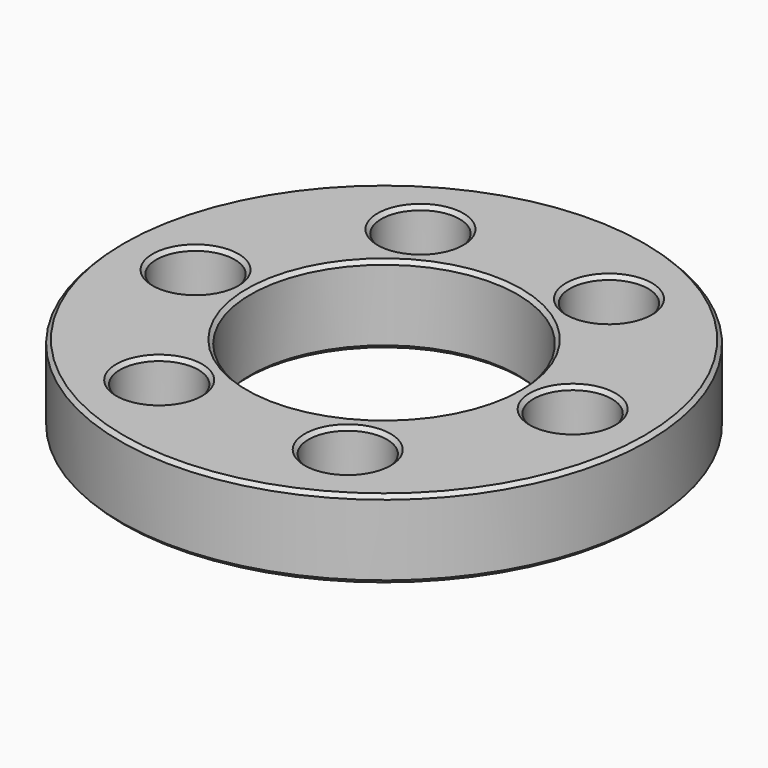
from build123d import *

# Parameters (mm, degrees)
SKETCH_R        = 17.5
SKETCH_R_2      = 8.85
SKETCH_R_3      = 2.6
PAD_DEPTH       = 5.2
SKETCH001_R     = 17.5
SKETCH001_R_2   = 8.85
PAD001_DEPTH    = 0.2
CHAMFER_SIZE    = 0.25
CHAMFER001_SIZE = 0.25


with BuildPart() as part:
    # Sketch → Pad (new body)
    with BuildSketch(Plane.XY):
        Circle(SKETCH_R)
        Circle(SKETCH_R_2, mode=Mode.SUBTRACT)
        with Locations((12.5, 0)):
            Circle(SKETCH_R_3, mode=Mode.SUBTRACT)
        with Locations((-12.5, 0)):
            Circle(SKETCH_R_3, mode=Mode.SUBTRACT)
        with Locations((-6.25, 10.825318)):
            Circle(SKETCH_R_3, mode=Mode.SUBTRACT)
        with Locations((6.25, 10.825318)):
            Circle(SKETCH_R_3, mode=Mode.SUBTRACT)
        with Locations((-6.25, -10.825318)):
            Circle(SKETCH_R_3, mode=Mode.SUBTRACT)
        with Locations((6.25, -10.825318)):
            Circle(SKETCH_R_3, mode=Mode.SUBTRACT)
    extrude(amount=PAD_DEPTH)

    # Sketch001 → Pad001 (join)
    with BuildSketch(Plane.XY):
        Circle(SKETCH001_R)
        Circle(SKETCH001_R_2, mode=Mode.SUBTRACT)
    extrude(amount=PAD001_DEPTH)

    # Chamfer
    chamfer_edges = [part.edges().sort_by_distance(p)[0] for p in [
        (-17.5, 0, 5.2),
        (-8.85, 0, 5.2),
        (3.65, -10.825318, 5.2),
        (-8.85, 10.825318, 5.2),
        (-15.1, 0, 5.2),
        (9.9, 0, 5.2),
        (-8.85, -10.825318, 5.2),
        (3.65, 10.825318, 5.2),
    ]]
    chamfer(chamfer_edges, length=CHAMFER_SIZE)

    # Chamfer001
    chamfer001_edges = [part.edges().sort_by_distance(p)[0] for p in [
        (-17.5, 0, 0),
        (-8.85, 0, 0),
    ]]
    chamfer(chamfer001_edges, length=CHAMFER001_SIZE)


solid = part.part
